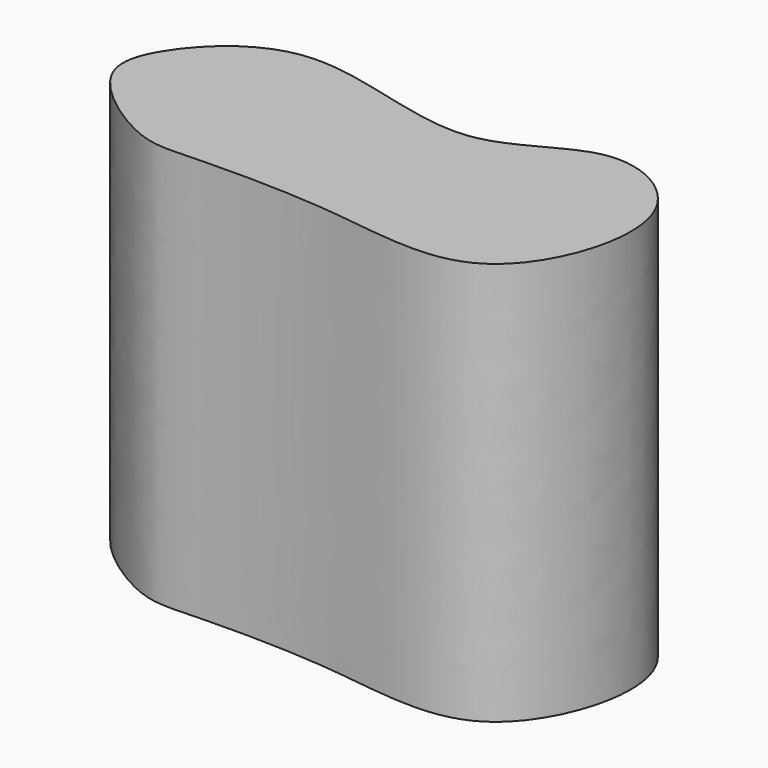
from build123d import *

# Parameters (mm, degrees)
F1_DEPTH = 304.8


with BuildPart() as f1:
    # F0 (on Top) → F1 (new body)
    with BuildSketch(Plane.XY):
        with BuildLine():
            add(Edge.make_bspline(
                [(-207.5650092044, 19.5005663884), (-195.0472097353, 40.5052457178), (-138.5731542839, 95.3853032149), (3.8997330005, 20.7709243337), (77.7423859228, 101.100081322), (175.5803862958, 45.8495263321), (125.6871415657, -102.6361163622), (0.9316540705, -72.5470893526), (-111.7325491809, -74.6218153927), (-150.1516447417, -77.0905286123), (-222.7497889328, -26.3321300443), (-216.3722626417, 4.7221275199), (-207.5650092044, 19.5005663884)],
                knots=[0, 0, 0, 0, 0.0995783663, 0.2265974265, 0.3283399121, 0.4237378811, 0.5389009724, 0.6541277762, 0.7678536379, 0.8356442149, 0.9299388114, 1, 1, 1, 1], degree=3))
        make_face()
    extrude(amount=F1_DEPTH)


solid = f1.part
